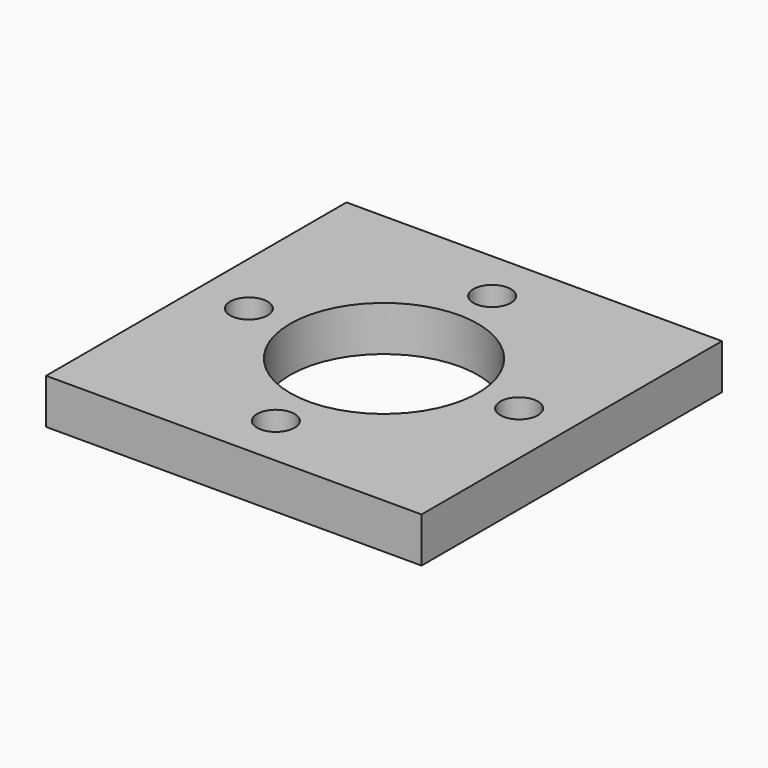
from build123d import *

# Parameters (mm, degrees)
F0_W     = 50
F0_H     = 50
F1_DEPTH = 6
F3_D     = 5
F5_D     = 25


with BuildPart() as f1:
    # F0 (on Top) → F1 (new body)
    with BuildSketch(Plane.XY):
        Rectangle(F0_W, F0_H)
    extrude(amount=F1_DEPTH)

    # F3 (through all)
    with Locations(Plane.XY.offset(6)):
        with Locations((0, 18), (18, 0), (0, -18), (-18, 0)):
            Hole(F3_D / 2)

    # F5 (through all)
    with Locations(Plane.XY.offset(6)):
        with Locations((0, 0)):
            Hole(F5_D / 2)


solid = f1.part
